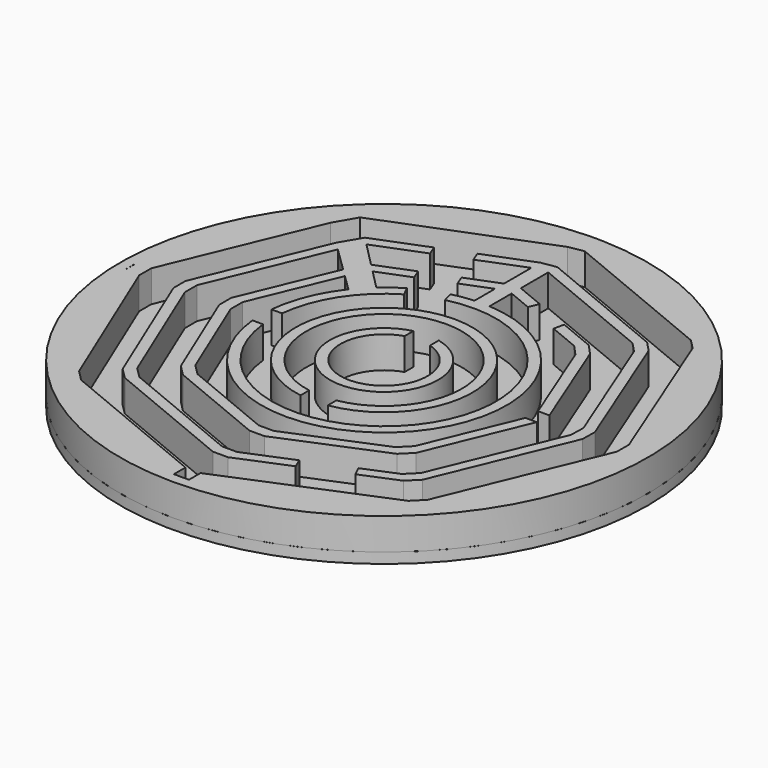
from build123d import *

# Parameters (mm, degrees)
F0_W     = 2.857966
F0_H     = 2.164784
F0_H_2   = 2.164785
F0_W_2   = 2.164784
F0_H_3   = 2.858
F1_DEPTH = 6
F2_R     = 50
F3_DEPTH = 2


with BuildPart() as f1:
    # F0 (on Top) → F1 (new body)
    with BuildSketch(Plane.XY):
        with BuildLine():
            Line((31.476348, 33.312736), (1.428983, 45.758762))
            Line((1.428983, 45.758762), (-1.428983, 45.258068))
            Line((-1.428983, 45.258068), (-31.294887, 33.474996))
            Line((-31.294887, 33.474996), (-33.646137, 29.42704))
            Line((-33.646137, 29.42704), (-45.243306, 1.429))
            Line((-45.243306, 1.429), (-45.243306, -1.429))
            Line((-45.243306, -1.429), (-33.002304, -30.981393))
            Line((-33.002304, -30.981393), (-30.981393, -33.002304))
            Line((-30.981393, -33.002304), (-1.428983, -45.243313))
            Line((-1.428983, -45.243313), (-1.428983, -47.408096))
            Line((-1.428983, -47.408096), (-1.428983, -47.978725))
            ThreePointArc((-1.428983, -47.978725), (0, -48), (1.428983, -47.978725))
            Line((1.428983, -47.978725), (1.428983, -47.408096))
            Line((1.428983, -47.408096), (1.428983, -45.243313))
            Line((1.428983, -45.243313), (30.981393, -33.002304))
            Line((30.981393, -33.002304), (33.002304, -30.981393))
            Line((33.002304, -30.981393), (45.243306, -1.429))
            Line((45.243306, -1.429), (45.25535, 1.429))
            Line((45.25535, 1.429), (33.287464, 31.483075))
            Line((33.287464, 31.483075), (31.476348, 33.312736))
        make_face()
        with BuildLine():
            Line((-29.023308, 24.908781), (-26.702591, 28.83672))
            Line((-26.702591, 28.83672), (-16.752606, 32.762314))
            Line((-16.752606, 32.762314), (-16.018602, 30.901873))
            Line((-16.018602, 30.901873), (-25.171826, 27.290628))
            Line((-25.171826, 27.290628), (-20.579529, 22.652352))
            Line((-20.579529, 22.652352), (-13.816589, 25.320552))
            Line((-13.816589, 25.320552), (-13.082585, 23.460112))
            Line((-13.082585, 23.460112), (-19.048764, 21.10626))
            Line((-19.048764, 21.10626), (-15.394766, 17.415677))
            ThreePointArc((-15.394766, 17.415677), (-13.632449, 18.827134), (-11.741504, 20.06095))
            Line((-11.741504, 20.06095), (-10.830313, 18.276519))
            ThreePointArc((-10.830313, 18.276519), (-17.874489, 11.481702), (-21.124969, 2.25))
            Line((-21.124969, 2.25), (-23.135301, 2.25))
            ThreePointArc((-23.135301, 2.25), (-21.567647, 8.668405), (-18.257453, 14.386454))
            Line((-18.257453, 14.386454), (-21.318593, 17.378349))
            Line((-21.318593, 17.378349), (-27.92503, 1.429))
            Line((-27.92503, 1.429), (-27.92503, -1.429))
            Line((-27.92503, -1.429), (-20.756434, -18.735522))
            Line((-20.756434, -18.735522), (-18.735522, -20.756434))
            Line((-18.735522, -20.756434), (-1.428983, -27.925037))
            Line((-1.428983, -27.925037), (1.428983, -27.925037))
            Line((1.428983, -27.925037), (18.735522, -20.756434))
            Line((18.735522, -20.756434), (20.756434, -18.735522))
            Line((20.756434, -18.735522), (27.92503, -1.429))
            Line((27.92503, -1.429), (30.089814, -1.429))
            Line((30.089814, -1.429), (22.287167, -20.266256))
            Line((22.287167, -20.266256), (20.266256, -22.287167))
            Line((20.266256, -22.287167), (1.428983, -30.089822))
            Line((1.428983, -30.089822), (-1.428983, -30.089822))
            Line((-1.428983, -30.089822), (-20.266256, -22.287167))
            Line((-20.266256, -22.287167), (-22.287167, -20.266256))
            Line((-22.287167, -20.266256), (-30.089814, -1.429))
            Line((-30.089814, -1.429), (-30.089814, 1.429))
            Line((-30.089814, 1.429), (-22.859536, 18.884436))
            Line((-22.859536, 18.884436), (-27.482365, 23.402695))
            Line((-27.482365, 23.402695), (-36.584168, 1.429))
            Line((-36.584168, 1.429), (-36.584168, -1.429))
            Line((-36.584168, -1.429), (-26.879369, -24.858458))
            Line((-26.879369, -24.858458), (-24.858458, -26.879369))
            Line((-24.858458, -26.879369), (-1.428983, -36.584175))
            Line((-1.428983, -36.584175), (1.428983, -36.584175))
            Line((1.428983, -36.584175), (10.283084, -32.916686))
            Line((10.283084, -32.916686), (11.072428, -34.754514))
            Line((11.072428, -34.754514), (1.428983, -38.748959))
            Line((1.428983, -38.748959), (-1.428983, -38.748959))
            Line((-1.428983, -38.748959), (-26.389191, -28.410103))
            Line((-26.389191, -28.410103), (-28.410103, -26.389191))
            Line((-28.410103, -26.389191), (-38.748952, -1.429))
            Line((-38.748952, -1.429), (-38.748952, 1.429))
            Line((-38.748952, 1.429), (-29.023308, 24.908781))
        make_face(mode=Mode.SUBTRACT)
        with BuildLine():
            ThreePointArc((2.409245, 9.957126), (0, -10.244453), (-2.409245, 9.957126))
            Line((-2.409245, 9.957126), (-2.409245, 7.884577))
            ThreePointArc((-2.409245, 7.884577), (0, -8.244453), (2.409245, 7.884577))
            Line((2.409245, 7.884577), (2.409245, 9.957126))
        make_face(mode=Mode.SUBTRACT)
        with BuildLine():
            ThreePointArc((-2.576652, -16.545017), (0, 16.744453), (2.576652, -16.545017))
            Line((2.576652, -16.545017), (2.576652, -14.517568))
            ThreePointArc((2.576652, -14.517568), (0, 14.744453), (-2.576652, -14.517568))
            Line((-2.576652, -14.517568), (-2.576652, -16.545017))
        make_face(mode=Mode.SUBTRACT)
        with BuildLine():
            Line((-1.428983, 38.807982), (1.428983, 39.264408))
            Line((1.428983, 39.264408), (26.846583, 28.736094))
            Line((26.846583, 28.736094), (28.686426, 26.819269))
            Line((28.686426, 26.819269), (38.797129, 1.429))
            Line((38.797129, 1.429), (38.748952, -1.429))
            Line((38.748952, -1.429), (28.410103, -26.389191))
            Line((28.410103, -26.389191), (26.389191, -28.410103))
            Line((26.389191, -28.410103), (19.560064, -31.23882))
            Line((19.560064, -31.23882), (18.691204, -29.433929))
            Line((18.691204, -29.433929), (24.858458, -26.879369))
            Line((24.858458, -26.879369), (26.879369, -24.858458))
            Line((26.879369, -24.858458), (36.584168, -1.429))
            Line((36.584168, -1.429), (36.644389, 1.429))
            Line((36.644389, 1.429), (27.152746, 25.264667))
            Line((27.152746, 25.264667), (25.303328, 27.210546))
            Line((25.303328, 27.210546), (1.428983, 37.099624))
            Line((1.428983, 37.099624), (1.428983, 30.605271))
            Line((1.428983, 30.605271), (6.778577, 28.389396))
            Line((6.778577, 28.389396), (6.009051, 26.54336))
            Line((6.009051, 26.54336), (1.428983, 28.440486))
            Line((1.428983, 28.440486), (1.428983, 23.200488))
            ThreePointArc((1.428983, 23.200488), (16.724918, -16.142545), (-23.135301, -2.25))
            Line((-23.135301, -2.25), (-21.124969, -2.25))
            ThreePointArc((-21.124969, -2.25), (17.359363, -12.246605), (-4.965312, 20.656052))
            Line((-4.965312, 20.656052), (-5.512394, 22.581367))
            ThreePointArc((-5.512394, 22.581367), (-3.484466, 22.9818), (-1.428983, 23.200488))
            Line((-1.428983, 23.200488), (-1.428983, 28.057838))
            Line((-1.428983, 28.057838), (-6.832024, 25.926162))
            Line((-6.832024, 25.926162), (-7.566029, 27.786602))
            Line((-7.566029, 27.786602), (-1.428983, 30.207866))
            Line((-1.428983, 30.207866), (-1.428983, 36.657953))
            Line((-1.428983, 36.657953), (-9.768042, 33.367923))
            Line((-9.768042, 33.367923), (-10.502046, 35.228363))
            Line((-10.502046, 35.228363), (-1.428983, 38.807982))
        make_face(mode=Mode.SUBTRACT)
        Polygon((22.551707, 20.600862), (30.186168, 1.429), (28.033428, 1.429), (21.018028, 19.04626), (19.130308, 21.108357), (13.307699, 23.520161), (13.72607, 25.51165), (20.673563, 22.633904), align=None, mode=Mode.SUBTRACT)
        with BuildLine():
            ThreePointArc((34.936537, -32.915626), (44.873416, -17.040439), (47.978724, 1.429))
            Line((47.978724, 1.429), (47.408089, 1.429))
            Line((47.408089, 1.429), (45.25535, 1.429))
            Line((45.25535, 1.429), (45.243306, -1.429))
            Line((45.243306, -1.429), (47.408089, -1.429))
            Line((47.408089, -1.429), (34.533037, -32.512125))
            Line((34.533037, -32.512125), (34.936537, -32.915626))
        make_face()
        with BuildLine():
            ThreePointArc((-1.428983, 49.979576), (-1.429536, 49.97956), (-1.43009, 49.979544))
            ThreePointArc((-1.43009, 49.979544), (0.000554, -50), (1.428983, 49.979576))
            ThreePointArc((1.428983, 49.979576), (0, 50), (-1.428983, 49.979576))
        make_face()
        with BuildLine():
            ThreePointArc((1.428983, 47.978725), (18.43486, 44.318799), (33.019602, 34.838282))
            ThreePointArc((33.019602, 34.838282), (33.932318, 33.949931), (34.821143, 33.037676))
            ThreePointArc((34.821143, 33.037676), (44.314011, 18.446366), (47.978724, 1.429))
            ThreePointArc((47.978724, 1.429), (44.873416, -17.040439), (34.936537, -32.915626))
            ThreePointArc((34.936537, -32.915626), (33.941125, -33.941125), (32.915626, -34.936537))
            ThreePointArc((32.915626, -34.936537), (18.368797, -44.346221), (1.428983, -47.978725))
            ThreePointArc((1.428983, -47.978725), (0, -48), (-1.428983, -47.978725))
            ThreePointArc((-1.428983, -47.978725), (-18.368797, -44.346221), (-32.915626, -34.936537))
            ThreePointArc((-32.915626, -34.936537), (-33.941125, -33.941125), (-34.936537, -32.915626))
            ThreePointArc((-34.936537, -32.915626), (-44.346064, -18.369176), (-47.9787, -1.429803))
            ThreePointArc((-47.9787, -1.429803), (-47.978712, -1.429402), (-47.978724, -1.429))
            ThreePointArc((-47.978724, -1.429), (-48, 0), (-47.978724, 1.429))
            ThreePointArc((-47.978724, 1.429), (-47.978708, 1.429547), (-47.978691, 1.430094))
            ThreePointArc((-47.978691, 1.430094), (-44.644879, 17.630506), (-36.010114, 31.737543))
            ThreePointArc((-36.010114, 31.737543), (-34.457018, 33.417269), (-32.825652, 35.021088))
            ThreePointArc((-32.825652, 35.021088), (-18.311747, 44.369809), (-1.428983, 47.978725))
            ThreePointArc((-1.428983, 47.978725), (0, 48), (1.428983, 47.978725))
        make_face(mode=Mode.SUBTRACT)
        with Locations((0, -37.666567)):
            Rectangle(F0_W, F0_H)
        Polygon((1.428983, -36.584175), (1.428983, -38.748959), (11.072428, -34.754514), (10.283084, -32.916686), align=None)
        Polygon((-24.858458, -26.879369), (-26.389191, -28.410103), (-1.428983, -38.748959), (-1.428983, -36.584175), align=None)
        Polygon((-18.735522, -20.756434), (-20.266256, -22.287167), (-1.428983, -30.089822), (-1.428983, -27.925037), align=None)
        with Locations((0, -29.00743)):
            Rectangle(F0_W, F0_H_2)
        Polygon((1.428983, -27.925037), (1.428983, -30.089822), (20.266256, -22.287167), (18.735522, -20.756434), align=None)
        Polygon((19.560064, -31.23882), (26.389191, -28.410103), (24.858458, -26.879369), (18.691204, -29.433929), align=None)
        Polygon((26.389191, -28.410103), (28.410103, -26.389191), (26.879369, -24.858458), (24.858458, -26.879369), align=None)
        Polygon((18.735522, -20.756434), (20.266256, -22.287167), (22.287167, -20.266256), (20.756434, -18.735522), align=None)
        Polygon((20.756434, -18.735522), (22.287167, -20.266256), (30.089814, -1.429), (27.92503, -1.429), align=None)
        Polygon((28.410103, -26.389191), (38.748952, -1.429), (36.584168, -1.429), (26.879369, -24.858458), align=None)
        Polygon((-26.879369, -24.858458), (-28.410103, -26.389191), (-26.389191, -28.410103), (-24.858458, -26.879369), align=None)
        Polygon((-20.756434, -18.735522), (-22.287167, -20.266256), (-20.266256, -22.287167), (-18.735522, -20.756434), align=None)
        Polygon((-36.584168, -1.429), (-38.748952, -1.429), (-28.410103, -26.389191), (-26.879369, -24.858458), align=None)
        Polygon((-27.92503, -1.429), (-30.089814, -1.429), (-22.287167, -20.266256), (-20.756434, -18.735522), align=None)
        Polygon((-27.482365, 23.402695), (-29.023308, 24.908781), (-38.748952, 1.429), (-36.584168, 1.429), align=None)
        with Locations((-37.66656, 0)):
            Rectangle(F0_W_2, F0_H_3)
        with Locations((-29.007422, 0)):
            Rectangle(F0_W_2, F0_H_3)
        Polygon((-21.318593, 17.378349), (-22.859536, 18.884436), (-30.089814, 1.429), (-27.92503, 1.429), align=None)
        with BuildLine():
            Line((-25.171826, 27.290628), (-26.702591, 28.83672))
            Line((-26.702591, 28.83672), (-29.023308, 24.908781))
            Line((-29.023308, 24.908781), (-27.482365, 23.402695))
            Line((-27.482365, 23.402695), (-22.859536, 18.884436))
            Line((-22.859536, 18.884436), (-21.318593, 17.378349))
            Line((-21.318593, 17.378349), (-18.257453, 14.386454))
            ThreePointArc((-18.257453, 14.386454), (-16.894141, 15.965357), (-15.394766, 17.415677))
            Line((-15.394766, 17.415677), (-19.048764, 21.10626))
            Line((-19.048764, 21.10626), (-20.579529, 22.652352))
            Line((-20.579529, 22.652352), (-25.171826, 27.290628))
        make_face()
        Polygon((-16.752606, 32.762314), (-26.702591, 28.83672), (-25.171826, 27.290628), (-16.018602, 30.901873), align=None)
        Polygon((-13.816589, 25.320552), (-20.579529, 22.652352), (-19.048764, 21.10626), (-13.082585, 23.460112), align=None)
        Polygon((-1.428983, 28.057838), (-1.428983, 30.207866), (-7.566029, 27.786602), (-6.832024, 25.926162), align=None)
        Polygon((-1.428983, 36.657953), (-1.428983, 38.807982), (-10.502046, 35.228363), (-9.768042, 33.367923), align=None)
        Polygon((26.846583, 28.736094), (1.428983, 39.264408), (1.428983, 37.099624), (25.303328, 27.210546), align=None)
        with BuildLine():
            Line((1.428983, 37.099624), (1.428983, 39.264408))
            Line((1.428983, 39.264408), (-1.428983, 38.807982))
            Line((-1.428983, 38.807982), (-1.428983, 36.657953))
            Line((-1.428983, 36.657953), (-1.428983, 30.207866))
            Line((-1.428983, 30.207866), (-1.428983, 28.057838))
            Line((-1.428983, 28.057838), (-1.428983, 23.200488))
            ThreePointArc((-1.428983, 23.200488), (0, 23.244454), (1.428983, 23.200488))
            Line((1.428983, 23.200488), (1.428983, 28.440486))
            Line((1.428983, 28.440486), (1.428983, 30.605271))
            Line((1.428983, 30.605271), (1.428983, 37.099624))
        make_face()
        Polygon((6.778577, 28.389396), (1.428983, 30.605271), (1.428983, 28.440486), (6.009051, 26.54336), align=None)
        Polygon((19.130308, 21.108357), (20.673563, 22.633904), (13.72607, 25.51165), (13.307699, 23.520161), align=None)
        Polygon((21.018028, 19.04626), (22.551707, 20.600862), (20.673563, 22.633904), (19.130308, 21.108357), align=None)
        Polygon((28.033428, 1.429), (30.186168, 1.429), (22.551707, 20.600862), (21.018028, 19.04626), align=None)
        Polygon((28.686426, 26.819269), (26.846583, 28.736094), (25.303328, 27.210546), (27.152746, 25.264667), align=None)
        Polygon((38.797129, 1.429), (28.686426, 26.819269), (27.152746, 25.264667), (36.644389, 1.429), align=None)
        Polygon((38.748952, -1.429), (38.797129, 1.429), (36.644389, 1.429), (36.584168, -1.429), align=None)
        with BuildLine():
            Line((2.576652, -14.517568), (2.576652, -16.545017))
            ThreePointArc((2.576652, -16.545017), (0, 16.744453), (-2.576652, -16.545017))
            Line((-2.576652, -16.545017), (-2.576652, -14.517568))
            ThreePointArc((-2.576652, -14.517568), (0, 14.744453), (2.576652, -14.517568))
        make_face()
        with BuildLine():
            ThreePointArc((-11.741504, 20.06095), (-13.632449, 18.827134), (-15.394766, 17.415677))
            ThreePointArc((-15.394766, 17.415677), (-16.894141, 15.965357), (-18.257453, 14.386454))
            ThreePointArc((-18.257453, 14.386454), (-21.567647, 8.668405), (-23.135301, 2.25))
            Line((-23.135301, 2.25), (-21.124969, 2.25))
            ThreePointArc((-21.124969, 2.25), (-17.874489, 11.481702), (-10.830313, 18.276519))
            Line((-10.830313, 18.276519), (-11.741504, 20.06095))
        make_face()
        with BuildLine():
            ThreePointArc((-23.135301, -2.25), (16.724918, -16.142545), (1.428983, 23.200488))
            ThreePointArc((1.428983, 23.200488), (0, 23.244454), (-1.428983, 23.200488))
            ThreePointArc((-1.428983, 23.200488), (-3.484466, 22.9818), (-5.512394, 22.581367))
            Line((-5.512394, 22.581367), (-4.965312, 20.656052))
            ThreePointArc((-4.965312, 20.656052), (17.359363, -12.246605), (-21.124969, -2.25))
            Line((-21.124969, -2.25), (-23.135301, -2.25))
        make_face()
        with BuildLine():
            Line((-2.409245, 7.884577), (-2.409245, 9.957126))
            ThreePointArc((-2.409245, 9.957126), (0, -10.244453), (2.409245, 9.957126))
            Line((2.409245, 9.957126), (2.409245, 7.884577))
            ThreePointArc((2.409245, 7.884577), (0, -8.244453), (-2.409245, 7.884577))
        make_face()
        Polygon((-31.294887, 33.474996), (-1.428983, 45.258068), (-1.428983, 47.408096), (-32.825652, 35.021088), align=None)
        Polygon((-33.646137, 29.42704), (-36.010114, 31.737543), (-47.408089, 1.429), (-45.243306, 1.429), align=None)
        Polygon((-33.002304, -30.981393), (-45.243306, -1.429), (-47.408089, -1.429), (-34.533037, -32.512125), align=None)
        with BuildLine():
            ThreePointArc((-32.915626, -34.936537), (-18.368797, -44.346221), (-1.428983, -47.978725))
            Line((-1.428983, -47.978725), (-1.428983, -47.408096))
            Line((-1.428983, -47.408096), (-32.512125, -34.533037))
            Line((-32.512125, -34.533037), (-32.915626, -34.936537))
        make_face()
        Polygon((-32.512125, -34.533037), (-1.428983, -47.408096), (-1.428983, -45.243313), (-30.981393, -33.002304), align=None)
        with BuildLine():
            Line((-47.408089, -1.429), (-47.978724, -1.429))
            ThreePointArc((-47.978724, -1.429), (-47.978712, -1.429402), (-47.9787, -1.429803))
            ThreePointArc((-47.9787, -1.429803), (-44.346064, -18.369176), (-34.936537, -32.915626))
            Line((-34.936537, -32.915626), (-34.533037, -32.512125))
            Line((-34.533037, -32.512125), (-47.408089, -1.429))
        make_face()
        with BuildLine():
            Line((-47.408089, 1.429), (-36.010114, 31.737543))
            ThreePointArc((-36.010114, 31.737543), (-44.644879, 17.630506), (-47.978691, 1.430094))
            ThreePointArc((-47.978691, 1.430094), (-47.978708, 1.429547), (-47.978724, 1.429))
            Line((-47.978724, 1.429), (-47.408089, 1.429))
        make_face()
        with BuildLine():
            Line((-1.428983, 47.408096), (-1.428983, 47.978725))
            ThreePointArc((-1.428983, 47.978725), (-18.311747, 44.369809), (-32.825652, 35.021088))
            Line((-32.825652, 35.021088), (-1.428983, 47.408096))
        make_face()
        with BuildLine():
            Line((1.428983, 47.978725), (1.428983, 47.923545))
            Line((1.428983, 47.923545), (33.019602, 34.838282))
            ThreePointArc((33.019602, 34.838282), (18.43486, 44.318799), (1.428983, 47.978725))
        make_face()
        with BuildLine():
            Line((-31.294887, 33.474996), (-32.825652, 35.021088))
            ThreePointArc((-32.825652, 35.021088), (-34.457018, 33.417269), (-36.010114, 31.737543))
            Line((-36.010114, 31.737543), (-33.646137, 29.42704))
            Line((-33.646137, 29.42704), (-31.294887, 33.474996))
        make_face()
        Polygon((33.019602, 34.838282), (1.428983, 47.923545), (1.428983, 45.758762), (31.476348, 33.312736), align=None)
        Polygon((47.408089, 1.429), (34.821143, 33.037676), (33.287464, 31.483075), (45.25535, 1.429), align=None)
        with BuildLine():
            ThreePointArc((47.978724, 1.429), (44.314011, 18.446366), (34.821143, 33.037676))
            Line((34.821143, 33.037676), (47.408089, 1.429))
            Line((47.408089, 1.429), (47.978724, 1.429))
        make_face()
        with BuildLine():
            ThreePointArc((34.936537, -32.915626), (44.873416, -17.040439), (47.978724, 1.429))
            Line((47.978724, 1.429), (47.408089, 1.429))
            Line((47.408089, 1.429), (45.25535, 1.429))
            Line((45.25535, 1.429), (45.243306, -1.429))
            Line((45.243306, -1.429), (47.408089, -1.429))
            Line((47.408089, -1.429), (34.533037, -32.512125))
            Line((34.533037, -32.512125), (34.936537, -32.915626))
        make_face()
        Polygon((33.002304, -30.981393), (34.533037, -32.512125), (47.408089, -1.429), (45.243306, -1.429), align=None)
        Polygon((1.428983, -47.408096), (32.512125, -34.533037), (30.981393, -33.002304), (1.428983, -45.243313), align=None)
        with BuildLine():
            ThreePointArc((1.428983, -47.978725), (18.368797, -44.346221), (32.915626, -34.936537))
            Line((32.915626, -34.936537), (32.512125, -34.533037))
            Line((32.512125, -34.533037), (1.428983, -47.408096))
            Line((1.428983, -47.408096), (1.428983, -47.978725))
        make_face()
        Polygon((-45.243306, 1.429), (-47.408089, 1.429), (-47.978724, 1.429), (-47.978724, -1.429), (-47.408089, -1.429), (-45.243306, -1.429), align=None)
        with BuildLine():
            Line((1.428983, 45.758762), (1.428983, 47.923545))
            Line((1.428983, 47.923545), (1.428983, 47.978725))
            ThreePointArc((1.428983, 47.978725), (0, 48), (-1.428983, 47.978725))
            Line((-1.428983, 47.978725), (-1.428983, 47.408096))
            Line((-1.428983, 47.408096), (-1.428983, 45.258068))
            Line((-1.428983, 45.258068), (1.428983, 45.758762))
        make_face()
        with BuildLine():
            ThreePointArc((32.915626, -34.936537), (33.941125, -33.941125), (34.936537, -32.915626))
            Line((34.936537, -32.915626), (34.533037, -32.512125))
            Line((34.533037, -32.512125), (33.002304, -30.981393))
            Line((33.002304, -30.981393), (30.981393, -33.002304))
            Line((30.981393, -33.002304), (32.512125, -34.533037))
            Line((32.512125, -34.533037), (32.915626, -34.936537))
        make_face()
        with BuildLine():
            Line((-30.981393, -33.002304), (-33.002304, -30.981393))
            Line((-33.002304, -30.981393), (-34.533037, -32.512125))
            Line((-34.533037, -32.512125), (-34.936537, -32.915626))
            ThreePointArc((-34.936537, -32.915626), (-33.941125, -33.941125), (-32.915626, -34.936537))
            Line((-32.915626, -34.936537), (-32.512125, -34.533037))
            Line((-32.512125, -34.533037), (-30.981393, -33.002304))
        make_face()
        with BuildLine():
            ThreePointArc((34.821143, 33.037676), (33.932318, 33.949931), (33.019602, 34.838282))
            Line((33.019602, 34.838282), (31.476348, 33.312736))
            Line((31.476348, 33.312736), (33.287464, 31.483075))
            Line((33.287464, 31.483075), (34.821143, 33.037676))
        make_face()
    extrude(amount=F1_DEPTH)


with BuildPart() as f3:
    # F2 (on Top) → F3 (new body)
    with BuildSketch(Plane.XY):
        Circle(F2_R)
    extrude(amount=-F3_DEPTH)


solid = Compound([f1.part, f3.part])
